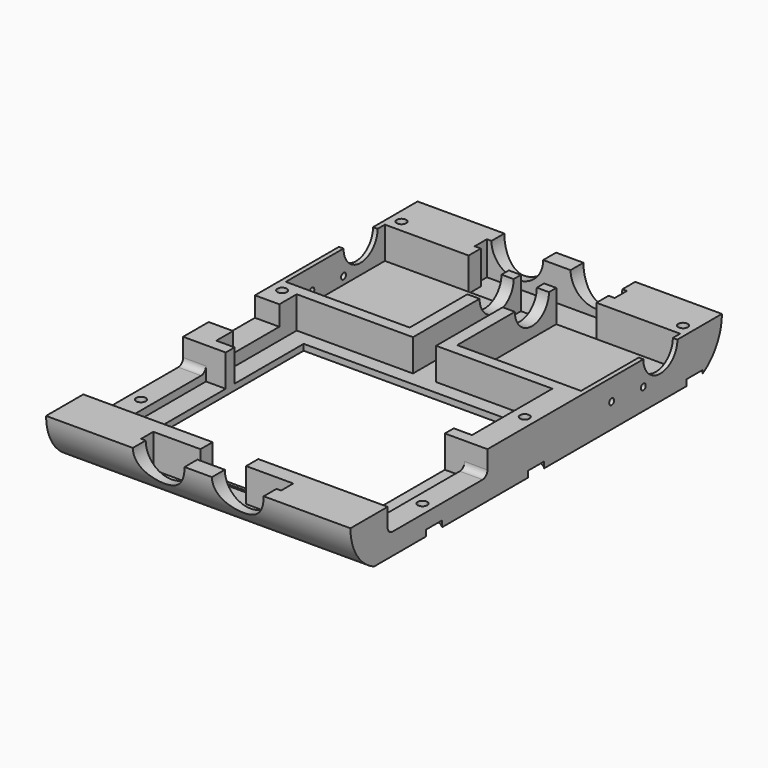
from build123d import *

# Parameters (mm, degrees)
PAD008_DEPTH         = 50
SKETCH025_W          = 40.7
SKETCH025_H          = 40.7
POCKET016_DEPTH      = 10.5
POCKET017_DEPTH      = 11
POCKET018_DEPTH      = 7
POCKET019_DEPTH      = 7
SKETCH029_W          = 41
SKETCH029_H          = 7.5
POCKET020_DEPTH      = 8
POCKET021_DEPTH      = 100.001
SKETCH031_R          = 1
POCKET022_DEPTH      = 5
SKETCH032_R          = 1
SKETCH032_W          = 19
SKETCH032_H          = 6.5
POCKET023_DEPTH      = 10
SKETCH034_R          = 1.55
POCKET024_DEPTH      = 23.001
SKETCH036_R          = 5
POCKET025_DEPTH      = 2
FILLET013_R          = 2
SKETCH037_W          = 72
SKETCH037_H          = 72
POCKET026_DEPTH      = 2.5
POCKET026_DEPTH_BACK = 11
SKETCH038_W          = 80
SKETCH038_H          = 80
POCKET027_DEPTH      = 2.5


with BuildPart() as part:
    # Sketch024 → Pad008 (new body, symmetric)
    with BuildSketch(Plane.YZ):
        with BuildLine():
            ThreePointArc((-76.283394, 0), (-73.65331, -8.9261), (-66.603462, -15))
            Line((-66.603462, -15), (66.603462, -15))
            ThreePointArc((66.603462, -15), (73.65331, -8.9261), (76.283394, 0))
            Line((-76.283394, 0), (76.283394, 0))
        make_face()
    extrude(amount=PAD008_DEPTH, both=True)

    # Sketch025 (on Face4 of Pad008) → Pocket016 (cut)
    with BuildSketch(Plane(origin=(0, 0, 0), x_dir=(0, -1, 0), z_dir=(0, 0, 1))):
        with Locations((-40.65, -28.15)):
            Rectangle(SKETCH025_W, SKETCH025_H)
        with Locations((-40.65, 28.15)):
            Rectangle(SKETCH025_W, SKETCH025_H)
        Polygon((-66, 3.8), (-16.65, 3.8), (-16.65, 42), (16.35, 42), (16.35, 3.8), (20, 3.8), (20, 42.5), (61, 42.5), (61, -42.5), (20, -42.5), (20, -3.8), (16.35, -3.8), (16.35, -42), (-16.65, -42), (-16.65, -3.8), (-66, -3.8), align=None)
    extrude(amount=-POCKET016_DEPTH, mode=Mode.SUBTRACT)

    # Sketch026 (on Face2 of Pocket016) → Pocket017 (cut)
    with BuildSketch(Plane(origin=(0, 0, 0), x_dir=(0, -1, 0), z_dir=(0, 0, 1))):
        Polygon((-71, 23), (-66, 23), (-66, 21), (-61, 21), (-61, -21), (-66, -21), (-66, -23), (-71, -23), align=None)
        Polygon((66, 23), (71, 23), (71, -23), (66, -23), (66, -7.5), (61, -7.5), (61, 7.5), (66, 7.5), align=None)
    extrude(amount=-POCKET017_DEPTH, mode=Mode.SUBTRACT)

    # Sketch027 (on Face41 of Pocket017) → Pocket018 (cut)
    with BuildSketch(Plane(origin=(0, 71, 0), x_dir=(0, 0, -1), z_dir=(0, -1, 0))):
        with BuildLine():
            ThreePointArc((0, 4.5), (8.5, 13), (0, 21.5))
            Line((0, 21.5), (0, 4.5))
        make_face()
        with BuildLine():
            ThreePointArc((0, -21.5), (8.5, -13), (0, -4.5))
            Line((0, -4.5), (0, -21.5))
        make_face()
    extrude(amount=-POCKET018_DEPTH, mode=Mode.SUBTRACT)

    # Sketch028 (on Face22 of Pocket017) → Pocket019 (cut)
    with BuildSketch(Plane.ZX.offset(-71)):
        with BuildLine():
            ThreePointArc((0, 21.5), (-8.5, 13), (0, 4.5))
            Line((0, 21.5), (0, 4.5))
        make_face()
        with BuildLine():
            ThreePointArc((0, -4.5), (-8.5, -13), (0, -21.5))
            Line((0, -4.5), (0, -21.5))
        make_face()
    extrude(amount=-POCKET019_DEPTH, mode=Mode.SUBTRACT)

    # Sketch029 (on Face2 of Pocket016) → Pocket020 (cut)
    with BuildSketch(Plane(origin=(0, 0, 0), x_dir=(0, -1, 0), z_dir=(0, 0, 1))):
        with Locations((40.5, 46.25)):
            Rectangle(SKETCH029_W, SKETCH029_H)
        with Locations((40.5, -46.25)):
            Rectangle(SKETCH029_W, SKETCH029_H)
    extrude(amount=-POCKET020_DEPTH, mode=Mode.SUBTRACT)

    # Sketch030 → Pocket021 (cut, through all)
    with BuildSketch(Plane.YZ.offset(50)):
        with BuildLine():
            ThreePointArc((44, 0), (51, -7), (58, 0))
            Line((44, 0), (58, 0))
        make_face()
    extrude(amount=-POCKET021_DEPTH, mode=Mode.SUBTRACT)

    # Sketch031 → Pocket022 (cut)
    with BuildSketch(Plane.YZ.offset(50)):
        with Locations((31, -7)):
            Circle(SKETCH031_R)
        with Locations((44, -8)):
            Circle(SKETCH031_R)
    extrude(amount=-POCKET022_DEPTH, mode=Mode.SUBTRACT)

    # Sketch032 → Pocket023 (cut)
    with BuildSketch(Plane(origin=(-50, 0, 0), x_dir=(0, 1, 0), z_dir=(-1, 0, 0))):
        with Locations((31, 7)):
            Circle(SKETCH032_R)
        with Locations((44, 8)):
            Circle(SKETCH032_R)
        with Locations((0, 3.25)):
            Rectangle(SKETCH032_W, SKETCH032_H)
    extrude(amount=-POCKET023_DEPTH, mode=Mode.SUBTRACT)

    # Sketch034 → Pocket024 (cut, through all)
    with BuildSketch(Plane(origin=(0, 0, 8), x_dir=(0, -1, 0), z_dir=(0, 0, 1))):
        with Locations((42, 46.25)):
            Circle(SKETCH034_R)
        with Locations((42, -46.25)):
            Circle(SKETCH034_R)
        with Locations((-16, -46.25)):
            Circle(SKETCH034_R)
        with Locations((0, 46.25)):
            Circle(SKETCH034_R)
        with Locations((-65, 46.25)):
            Circle(SKETCH034_R)
        with Locations((-65, -46.25)):
            Circle(SKETCH034_R)
    extrude(amount=-POCKET024_DEPTH, mode=Mode.SUBTRACT)

    # Sketch036 → Pocket025 (cut)
    with BuildSketch(Plane.YX.offset(15)):
        with Locations((-42, 46.25)):
            Circle(SKETCH036_R)
        with Locations((-42, -46.25)):
            Circle(SKETCH036_R)
        with Locations((16, -46.25)):
            Circle(SKETCH036_R)
        with Locations((0, 46.25)):
            Circle(SKETCH036_R)
        with Locations((65, 46.25)):
            Circle(SKETCH036_R)
        with Locations((65, -46.25)):
            Circle(SKETCH036_R)
    extrude(amount=-POCKET025_DEPTH, mode=Mode.SUBTRACT)

    # Fillet013
    fillet013_edges = [part.edges().sort_by_distance(p)[0] for p in [
        (46.25, -61, -8),
        (46.25, -20, -8),
        (-46.25, -20, -8),
        (-46.25, -61, -8),
    ]]
    fillet(fillet013_edges, radius=FILLET013_R)

    # Sketch037 (on Face69 of Fillet013) → Pocket026 (cut, two sides)
    with BuildSketch(Plane(origin=(0, 0, -10.5), x_dir=(0, -1, 0), z_dir=(0, 0, 1))) as pocket026_sk:
        with Locations((24, 0)):
            Rectangle(SKETCH037_W, SKETCH037_H)
    extrude(amount=-POCKET026_DEPTH, mode=Mode.SUBTRACT)
    extrude(pocket026_sk.sketch, amount=POCKET026_DEPTH_BACK, mode=Mode.SUBTRACT)

    # Sketch038 (on Face5 of Pocket026) → Pocket027 (cut)
    with BuildSketch(Plane.YX.offset(15)):
        with Locations((-24, 0)):
            Rectangle(SKETCH038_W, SKETCH038_H)
    extrude(amount=-POCKET027_DEPTH, mode=Mode.SUBTRACT)


solid = part.part
